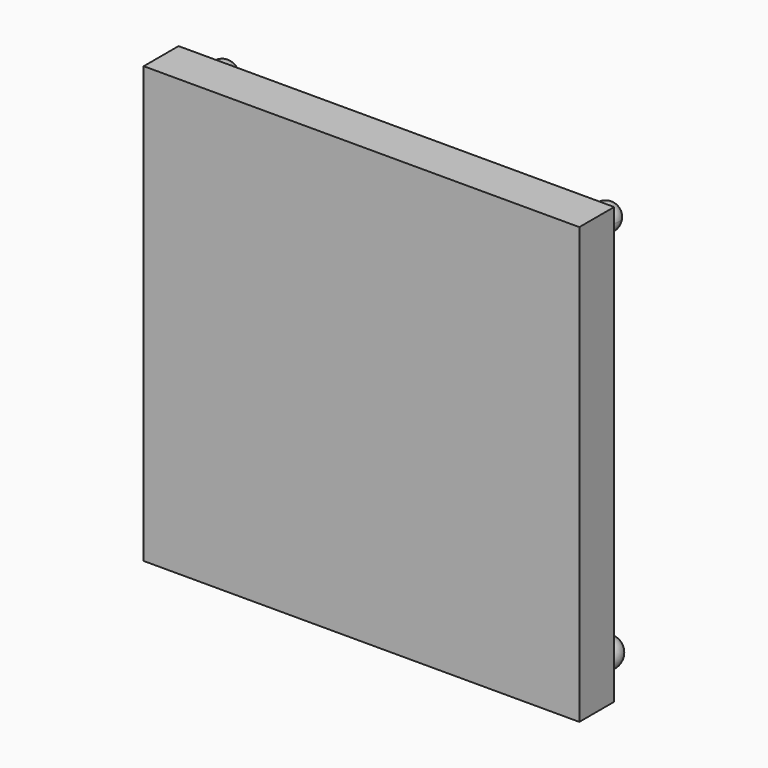
from build123d import *

# Parameters (mm, degrees)
F0_W     = 25.4
F0_H     = 25.4
F1_DEPTH = 2.54
F3_DEPTH = 1.27
F4_W     = 0.508
F4_H     = 1.016
F6_W     = 0.508
F6_H     = 1.016
F8_W     = 0.508
F8_H     = 1.016
F10_W    = 0.508
F10_H    = 1.016


with BuildPart() as f1:
    # F0 (on Front) → F1 (new body)
    with BuildSketch(Plane.XZ):
        Rectangle(F0_W, F0_H)
    extrude(amount=F1_DEPTH)

    # F2 (on face) → F3 (join)
    with BuildSketch(Plane(origin=(0, 0, 0), x_dir=(-1, 0, 0), z_dir=(0, 1, 0))):
        Polygon((-10.668, 10.668), (-10.668, 11.684), (-11.176, 11.684), (-11.684, 11.684), (-11.684, 10.668), align=None)
        Polygon((11.684, 10.668), (11.684, 11.684), (11.176, 11.684), (10.668, 11.684), (10.668, 10.668), align=None)
        Polygon((-10.668, -11.684), (-10.668, -10.668), (-11.684, -10.668), (-11.684, -11.684), (-11.176, -11.684), align=None)
        Polygon((11.684, -11.684), (11.684, -10.668), (10.668, -10.668), (10.668, -11.684), (11.176, -11.684), align=None)
    extrude(amount=F3_DEPTH)

    # F4 (on face) → F5 (revolve)
    with BuildSketch(Plane(origin=(0, 1.27, 0), x_dir=(-1, 0, 0), z_dir=(0, 1, 0))):
        with BuildLine():
            ThreePointArc((-11.176, 10.414), (-10.6371846327, 10.6371846327), (-10.414, 11.176))
            ThreePointArc((-10.414, 11.176), (-10.6371846327, 11.7148153673), (-11.176, 11.938))
            Line((-11.176, 11.938), (-11.176, 11.684))
            Line((-11.176, 11.684), (-10.668, 11.684))
            Line((-10.668, 11.684), (-10.668, 10.668))
            Line((-10.668, 10.668), (-11.176, 10.668))
            Line((-11.176, 10.668), (-11.176, 10.414))
        make_face()
        with Locations((-10.922, 11.176)):
            Rectangle(F4_W, F4_H)
        with Locations((-11.43, 11.176)):
            Rectangle(F4_W, F4_H)
    revolve(axis=Axis((11.176, 1.27, 11.176), (0, 0, -1)))

    # F6 (on face) → F7 (revolve)
    with BuildSketch(Plane(origin=(0, 1.27, 0), x_dir=(-1, 0, 0), z_dir=(0, 1, 0))):
        with BuildLine():
            ThreePointArc((11.176, 10.414), (11.7148153673, 10.6371846327), (11.938, 11.176))
            ThreePointArc((11.938, 11.176), (11.7148153673, 11.7148153673), (11.176, 11.938))
            Line((11.176, 11.938), (11.176, 11.684))
            Line((11.176, 11.684), (11.684, 11.684))
            Line((11.684, 11.684), (11.684, 10.668))
            Line((11.684, 10.668), (11.176, 10.668))
            Line((11.176, 10.668), (11.176, 10.414))
        make_face()
        with Locations((11.43, 11.176)):
            Rectangle(F6_W, F6_H)
        with Locations((10.922, 11.176)):
            Rectangle(F6_W, F6_H)
    revolve(axis=Axis((-11.176, 1.27, 11.176), (0, 0, -1)))

    # F8 (on face) → F9 (revolve)
    with BuildSketch(Plane(origin=(0, 1.27, 0), x_dir=(-1, 0, 0), z_dir=(0, 1, 0))):
        with BuildLine():
            ThreePointArc((11.176, -11.938), (11.7148153673, -11.7148153673), (11.938, -11.176))
            ThreePointArc((11.938, -11.176), (11.7148153673, -10.6371846327), (11.176, -10.414))
            Line((11.176, -10.414), (11.176, -10.668))
            Line((11.176, -10.668), (11.684, -10.668))
            Line((11.684, -10.668), (11.684, -11.684))
            Line((11.684, -11.684), (11.176, -11.684))
            Line((11.176, -11.684), (11.176, -11.938))
        make_face()
        with Locations((11.43, -11.176)):
            Rectangle(F8_W, F8_H)
        with Locations((10.922, -11.176)):
            Rectangle(F8_W, F8_H)
    revolve(axis=Axis((-11.176, 1.27, -11.176), (0, 0, -1)))

    # F10 (on face) → F11 (revolve)
    with BuildSketch(Plane(origin=(0, 1.27, 0), x_dir=(-1, 0, 0), z_dir=(0, 1, 0))):
        with BuildLine():
            Line((-11.176, -10.668), (-11.176, -10.3170624905))
            ThreePointArc((-11.176, -10.3170624905), (-12.0349375095, -11.176), (-11.176, -12.0349375095))
            Line((-11.176, -12.0349375095), (-11.176, -11.684))
            Line((-11.176, -11.684), (-11.684, -11.684))
            Line((-11.684, -11.684), (-11.684, -10.668))
            Line((-11.684, -10.668), (-11.176, -10.668))
        make_face()
        with Locations((-10.922, -11.176)):
            Rectangle(F10_W, F10_H)
        with Locations((-11.43, -11.176)):
            Rectangle(F10_W, F10_H)
    revolve(axis=Axis((11.176, 1.27, -11.176), (0, 0, -1)))


solid = f1.part
